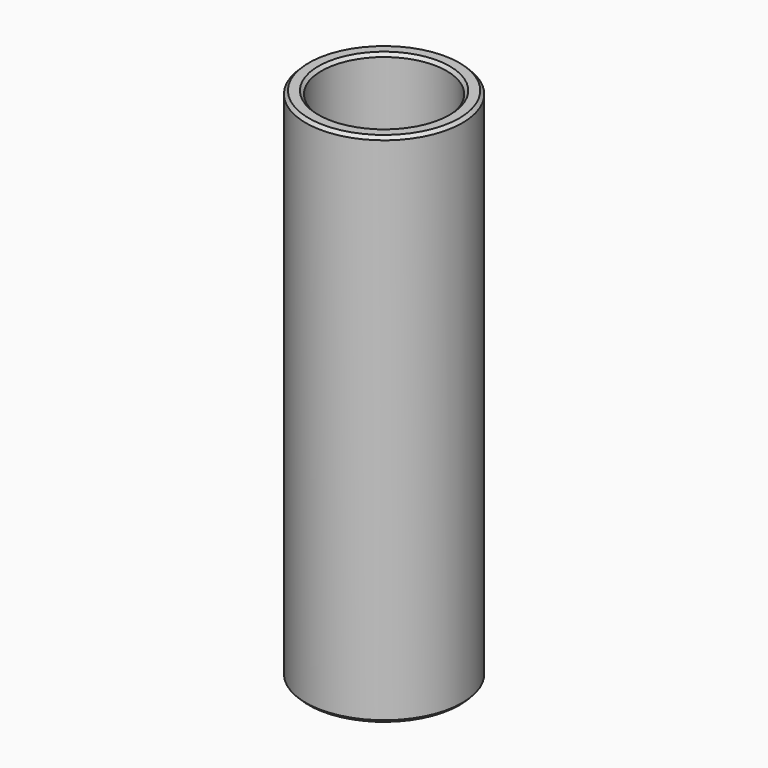
from build123d import *

# Parameters (mm, degrees)
F0_R     = 2.5
F1_DEPTH = 16.5
F2_R     = 2
F3_DEPTH = 16.501
F4_SIZE  = 0.1


with BuildPart() as f1:
    # F0 (on Top) → F1 (new body)
    with BuildSketch(Plane.XY):
        Circle(F0_R)
    extrude(amount=F1_DEPTH)

    # F2 (on face) → F3 (cut, through all)
    with BuildSketch(Plane.XY.offset(16.5)):
        Circle(F2_R)
    extrude(amount=-F3_DEPTH, mode=Mode.SUBTRACT)

    # F4
    f4_edges = [f1.edges().sort_by_distance(p)[0] for p in [
        (-2, 0, 0),
        (-2.5, 0, 0),
        (-2.5, 0, 16.5),
        (-2, 0, 16.5),
    ]]
    chamfer(f4_edges, length=F4_SIZE)


solid = f1.part
